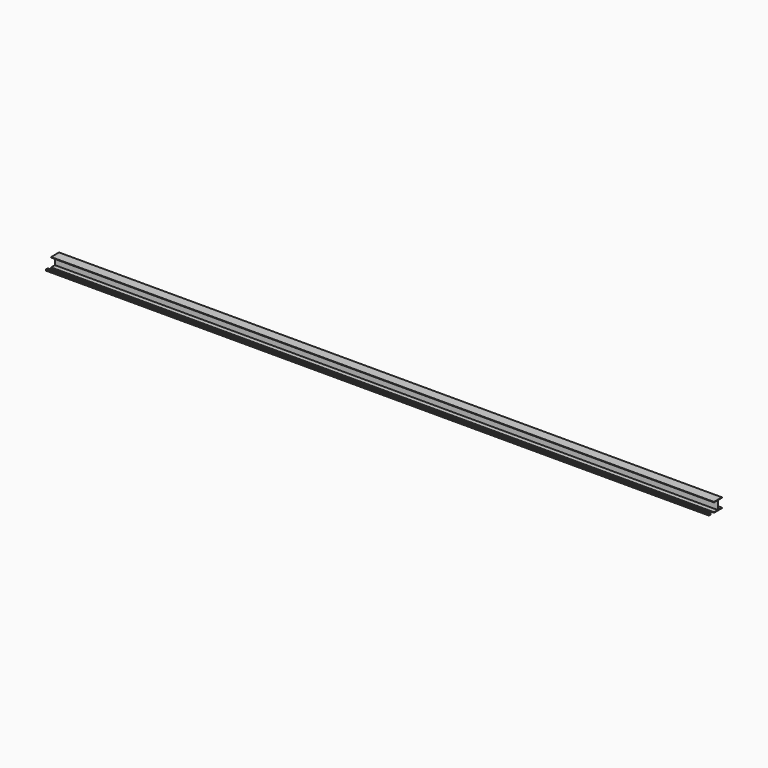
from build123d import *

# Parameters (mm, degrees)
F1_DEPTH = 20000
F2_W     = 60
F2_H     = 40
F2_W_2   = 50
F2_H_2   = 30
F3_DEPTH = 20000


with BuildPart() as f1:
    # F0 (on Right) → F1 (new body)
    with BuildSketch(Plane.YZ):
        Polygon((-31.844757, -13.941533), (-31.844757, -28.941533), (268.155243, -28.941533), (268.155243, -13.941533), (123.155243, -13.941533), (123.155243, 246.058467), (268.155243, 246.058467), (268.155243, 261.058467), (-31.844757, 261.058467), (-31.844757, 246.058467), (113.155243, 246.058467), (113.155243, -13.941533), align=None)
    extrude(amount=F1_DEPTH)


with BuildPart() as f3:
    # F2 (on Right) → F3 (new body)
    with BuildSketch(Plane.YZ):
        with Locations((-190.906988, -6.42715)):
            Rectangle(F2_W, F2_H)
        with Locations((-190.906988, -6.42715)):
            Rectangle(F2_W_2, F2_H_2, mode=Mode.SUBTRACT)
    extrude(amount=F3_DEPTH)


solid = Compound([f1.part, f3.part])
